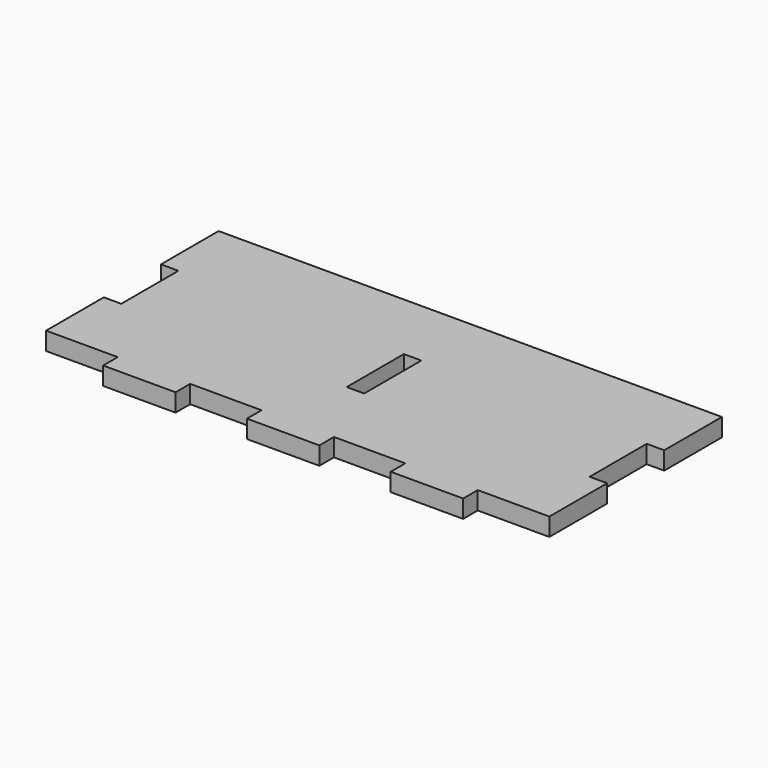
from build123d import *

# Parameters (mm, degrees)
F0_W     = 6.1722
F0_H     = 25.2222
F0_W_2   = 25.5778
F0_H_2   = 6.4389
F1_DEPTH = 6.35


with BuildPart() as f1:
    # F0 (on Top) → F1 (new body)
    with BuildSketch(Plane.XY):
        Polygon((0, 25.4889), (0, 0), (25.3111, 0), (50.8889, 0), (76.1111, 0), (101.6889, 0), (126.9111, 0), (152.4889, 0), (177.8, 0), (177.8, 25.4889), (171.6278, 25.4889), (171.6278, 50.7111), (177.8, 50.7111), (177.8, 76.2), (0, 76.2), (0, 50.7111), (6.1722, 50.7111), (6.1722, 25.4889), align=None)
        with Locations((88.9, 38.1)):
            Rectangle(F0_W, F0_H, mode=Mode.SUBTRACT)
        with Locations((38.1, -3.21945)):
            Rectangle(F0_W_2, F0_H_2)
        with Locations((88.9, -3.21945)):
            Rectangle(F0_W_2, F0_H_2)
        with Locations((139.7, -3.21945)):
            Rectangle(F0_W_2, F0_H_2)
    extrude(amount=F1_DEPTH)


solid = f1.part
